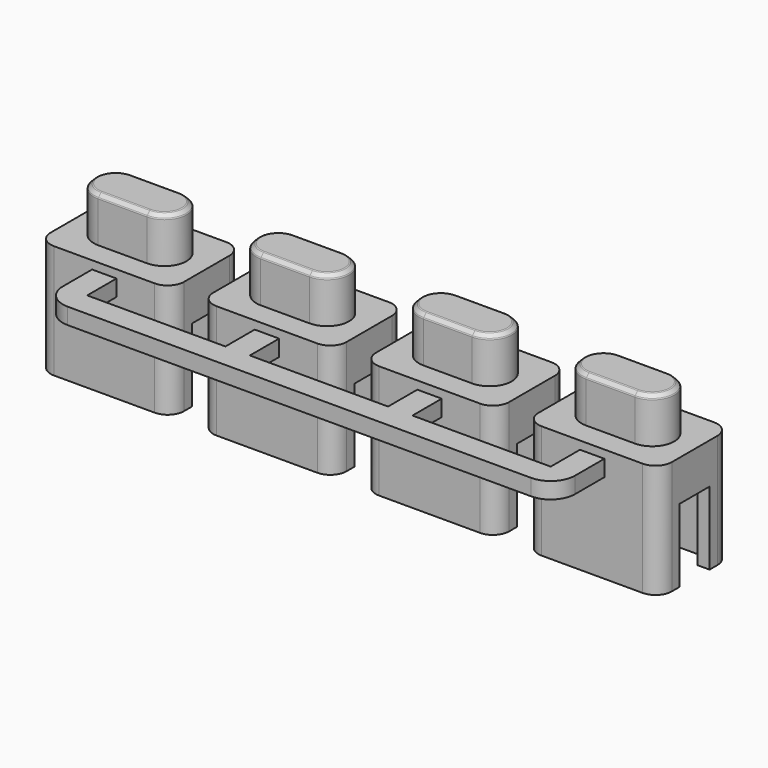
from build123d import *

# Parameters (mm, degrees)
PAD_DEPTH       = 9.8
POCKET_DEPTH    = 5
SKETCH002_W     = 0.5
SKETCH002_H     = 0.95
PAD001_DEPTH    = 2.2
SKETCH005_W     = 10
SKETCH005_H     = 10
POCKET001_DEPTH = 2.801
CHAMFER_SIZE    = 0.25
FILLET_R        = 0.1
PAD002_DEPTH    = 1


with BuildPart() as obj1_base:
    # Sketch → Pad (new body)
    with BuildSketch(Plane.XY.offset(0.5)):
        with BuildLine():
            Line((-4.1, -1.75), (-4.1, 1.75))
            ThreePointArc((-3.1, 2.75), (-3.807107, 2.457107), (-4.1, 1.75))
            Line((-3.1, 2.75), (3.1, 2.75))
            ThreePointArc((4.1, 1.75), (3.807107, 2.457107), (3.1, 2.75))
            Line((4.1, 1.75), (4.1, -1.75))
            ThreePointArc((3.1, -2.75), (3.807107, -2.457107), (4.1, -1.75))
            Line((3.1, -2.75), (-3.1, -2.75))
            ThreePointArc((-4.1, -1.75), (-3.807107, -2.457107), (-3.1, -2.75))
        make_face()
    extrude(amount=PAD_DEPTH)

    # Sketch001 → Pocket (cut)
    with BuildSketch(Plane.XY):
        Polygon((-3.35, 2.05), (-3.35, 1.15), (-5.35, 1.15), (-5.35, -1.15), (-3.35, -1.15), (-3.35, -2.05), (3.35, -2.05), (3.35, -1.15), (5.35, -1.15), (5.35, 1.15), (3.35, 1.15), (3.35, 2.05), align=None)
    extrude(amount=POCKET_DEPTH, mode=Mode.SUBTRACT)

    # Sketch002 → Pad001 (join, symmetric)
    with BuildSketch(Plane.XZ):
        with Locations((-0.75, 4.525)):
            Rectangle(SKETCH002_W, SKETCH002_H)
        with Locations((0.75, 4.525)):
            Rectangle(SKETCH002_W, SKETCH002_H)
    extrude(amount=PAD001_DEPTH, both=True)

    # Sketch005 (on DatumPlane) → Pocket001 (cut, through all)
    with BuildSketch(Plane.XY.offset(7.5)):
        Rectangle(SKETCH005_W, SKETCH005_H)
        with BuildLine():
            ThreePointArc((-1.5, 1.35), (-2.85, 0), (-1.5, -1.35))
            Line((-1.5, -1.35), (1.5, -1.35))
            ThreePointArc((1.5, -1.35), (2.85, 0), (1.5, 1.35))
            Line((1.5, 1.35), (-1.5, 1.35))
        make_face(mode=Mode.SUBTRACT)
    extrude(amount=POCKET001_DEPTH, mode=Mode.SUBTRACT)

    # Chamfer
    chamfer_edges = [obj1_base.edges().sort_by_distance(p)[0] for p in [
        (-2.85, 0, 10.3),
        (0, 1.35, 10.3),
        (2.85, 0, 10.3),
        (0, -1.35, 10.3),
    ]]
    chamfer(chamfer_edges, length=CHAMFER_SIZE)

    # Fillet
    fillet_edges = [obj1_base.edges().sort_by_distance(p)[0] for p in [
        (0, -1.1, 10.3),
        (0, -1.35, 10.05),
    ]]
    fillet(fillet_edges, radius=FILLET_R)


with BuildPart() as clone1:
    # Body002 base: copy of obj1_base
    add(obj1_base.part)


with BuildPart() as clone1_1:
    # Body002 placement: moved
    add(clone1.part.moved(Location((10, 0, 0))))


with BuildPart() as clone2:
    # Body003 base: copy of obj1_base
    add(obj1_base.part)


with BuildPart() as clone2_1:
    # Body003 placement: moved
    add(clone2.part.moved(Location((20, 0, 0))))


with BuildPart() as clone3:
    # Body004 base: copy of obj1_base
    add(obj1_base.part)


with BuildPart() as clone3_1:
    # Body004 placement: moved
    add(clone3.part.moved(Location((30, 0, 0))))


with BuildPart() as obj1:
    # Sketch006 → Pad002 (new body)
    with BuildSketch(Plane.XY.offset(6)):
        with BuildLine():
            Line((-0.75, -2), (-0.75, -5))
            ThreePointArc((-0.75, -5), (-0.31066, -6.06066), (0.75, -6.5))
            Line((0.75, -6.5), (29.25, -6.5))
            ThreePointArc((29.25, -6.5), (30.31066, -6.06066), (30.75, -5))
            Line((30.75, -5), (30.75, -2))
            Line((30.75, -2), (29.25, -2))
            Line((29.25, -2), (29.25, -5))
            Line((20.75, -5), (29.25, -5))
            Line((20.75, -5), (20.75, -2))
            Line((20.75, -2), (19.25, -2))
            Line((19.25, -2), (19.25, -5))
            Line((10.75, -5), (19.25, -5))
            Line((10.75, -5), (10.75, -2))
            Line((10.75, -2), (9.25, -2))
            Line((9.25, -2), (9.25, -5))
            Line((0.75, -5), (9.25, -5))
            Line((0.75, -5), (0.75, -2))
            Line((0.75, -2), (-0.75, -2))
        make_face()
    extrude(amount=PAD002_DEPTH)

    # Boolean: union obj1_base, Clone1, Clone2, Clone3
    add(obj1_base.part)
    add(clone1_1.part)
    add(clone2_1.part)
    add(clone3_1.part)


solid = obj1.part
